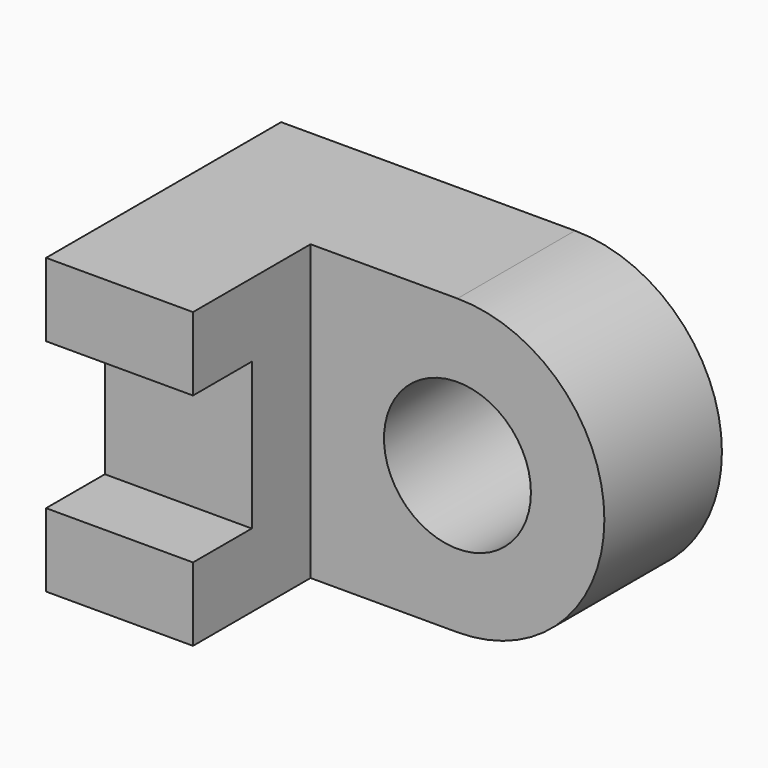
from build123d import *

# Parameters (mm, degrees)
F0_W     = 12.7
F0_H     = 25.4
F1_DEPTH = 12.7
F2_DEPTH = 12.7
F0_R     = 6.35
F3_DEPTH = 12.7
F4_W     = 6.35
F4_H     = 12.7
F5_DEPTH = 25.4


with BuildPart() as f1:
    # F0 (on Front) → F1 (new body)
    with BuildSketch(Plane.XZ):
        with Locations((6.35, 0)):
            Rectangle(F0_W, F0_H)
    extrude(amount=F1_DEPTH)

    # F0 (on Front) → F2 (join)
    with BuildSketch(Plane.XZ):
        with Locations((6.35, 0)):
            Rectangle(F0_W, F0_H)
    extrude(amount=-F2_DEPTH)

    # F0 (on Front) → F3 (join)
    with BuildSketch(Plane.XZ):
        with BuildLine():
            Line((25.4, 12.7), (12.7, 12.7))
            Line((12.7, 12.7), (12.7, -12.7))
            Line((12.7, -12.7), (25.4, -12.7))
            ThreePointArc((25.4, -12.7), (38.1, 0), (25.4, 12.7))
        make_face()
        with Locations((25.4, 0)):
            Circle(F0_R, mode=Mode.SUBTRACT)
    extrude(amount=-F3_DEPTH)

    # F4 (on face) → F5 (cut)
    with BuildSketch(Plane.YZ.offset(12.7)):
        with Locations((-9.525, 0)):
            Rectangle(F4_W, F4_H)
    extrude(amount=-F5_DEPTH, mode=Mode.SUBTRACT)


solid = f1.part
